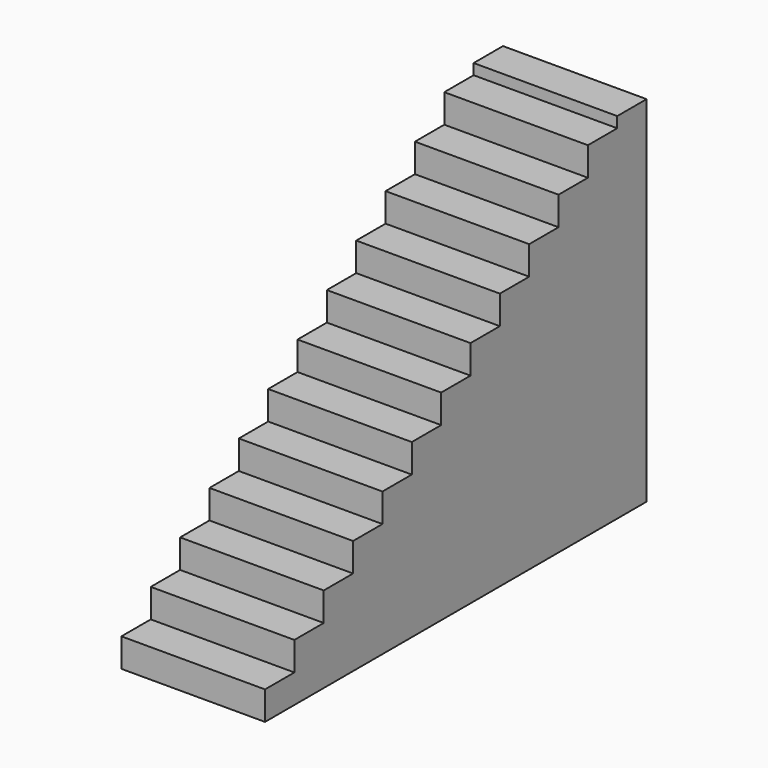
from build123d import *

# Parameters (mm, degrees)
F0_W     = 1019.175
F0_H     = 3384.55
F1_DEPTH = 2514.6
F3_DEPTH = 1019.175


with BuildPart() as f1:
    # F0 (on Top) → F1 (new body)
    with BuildSketch(Plane.XY):
        with Locations((509.5875, 1692.275)):
            Rectangle(F0_W, F0_H)
    extrude(amount=F1_DEPTH)

    # F2 (on face) → F3 (cut)
    with BuildSketch(Plane(origin=(0, 0, 0), x_dir=(0, -1, 0), z_dir=(-1, 0, 0))):
        Polygon((-260.35, 203.2), (0, 203.2), (0, 2514.6), (-3124.2, 2514.6), (-3124.2, 2438.4), (-2863.85, 2438.4), (-2863.85, 2235.2), (-2603.5, 2235.2), (-2603.5, 2032), (-2343.15, 2032), (-2343.15, 1828.8), (-2082.8, 1828.8), (-2082.8, 1625.6), (-1822.45, 1625.6), (-1822.45, 1422.4), (-1562.1, 1422.4), (-1562.1, 1219.2), (-1301.75, 1219.2), (-1301.75, 1016), (-1041.4, 1016), (-1041.4, 812.8), (-781.05, 812.8), (-781.05, 609.6), (-520.7, 609.6), (-520.7, 406.4), (-260.35, 406.4), align=None)
    extrude(amount=-F3_DEPTH, mode=Mode.SUBTRACT)


solid = f1.part
